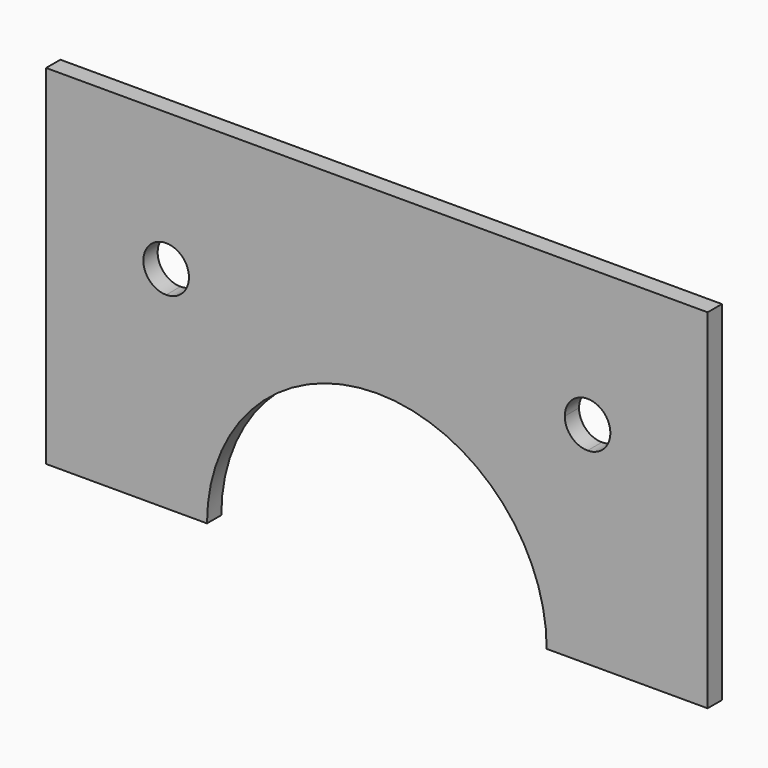
from build123d import *

# Parameters (mm, degrees)
F1_DEPTH = 2


with BuildPart() as f1:
    # F0 (on Front) → F1 (new body)
    with BuildSketch(Plane.XZ):
        with BuildLine():
            Line((-13.43, 0), (0, 0))
            Line((0, 0), (0, 39))
            Line((0, 39), (-13.43, 39))
            Line((-13.43, 39), (-13.43, 26.12))
            ThreePointArc((-13.43, 26.12), (-11.626878, 25.373122), (-10.88, 23.57))
            ThreePointArc((-10.88, 23.57), (-11.626878, 21.766878), (-13.43, 21.02))
            Line((-13.43, 21.02), (-13.43, 0))
        make_face()
        with BuildLine():
            Line((-18, 0), (-13.43, 0))
            Line((-13.43, 0), (-13.43, 21.02))
            ThreePointArc((-13.43, 21.02), (-15.233122, 21.766878), (-15.98, 23.57))
            Line((-15.98, 23.57), (-58.02, 23.57))
            ThreePointArc((-58.02, 23.57), (-58.766878, 21.766878), (-60.57, 21.02))
            Line((-60.57, 21.02), (-60.57, 0))
            Line((-60.57, 0), (-56, 0))
            ThreePointArc((-56, 0), (-50.435029, 13.435029), (-37, 19))
            ThreePointArc((-37, 19), (-23.564971, 13.435029), (-18, 0))
        make_face()
        with BuildLine():
            Line((-13.43, 26.12), (-13.43, 39))
            Line((-13.43, 39), (-60.57, 39))
            Line((-60.57, 39), (-60.57, 26.12))
            ThreePointArc((-60.57, 26.12), (-58.766878, 25.373122), (-58.02, 23.57))
            Line((-58.02, 23.57), (-15.98, 23.57))
            ThreePointArc((-15.98, 23.57), (-15.233122, 25.373122), (-13.43, 26.12))
        make_face()
        with BuildLine():
            Line((-60.57, 26.12), (-60.57, 39))
            Line((-60.57, 39), (-74, 39))
            Line((-74, 39), (-74, 0))
            Line((-74, 0), (-60.57, 0))
            Line((-60.57, 0), (-60.57, 21.02))
            ThreePointArc((-60.57, 21.02), (-63.12, 23.57), (-60.57, 26.12))
        make_face()
    extrude(amount=F1_DEPTH)


solid = f1.part
